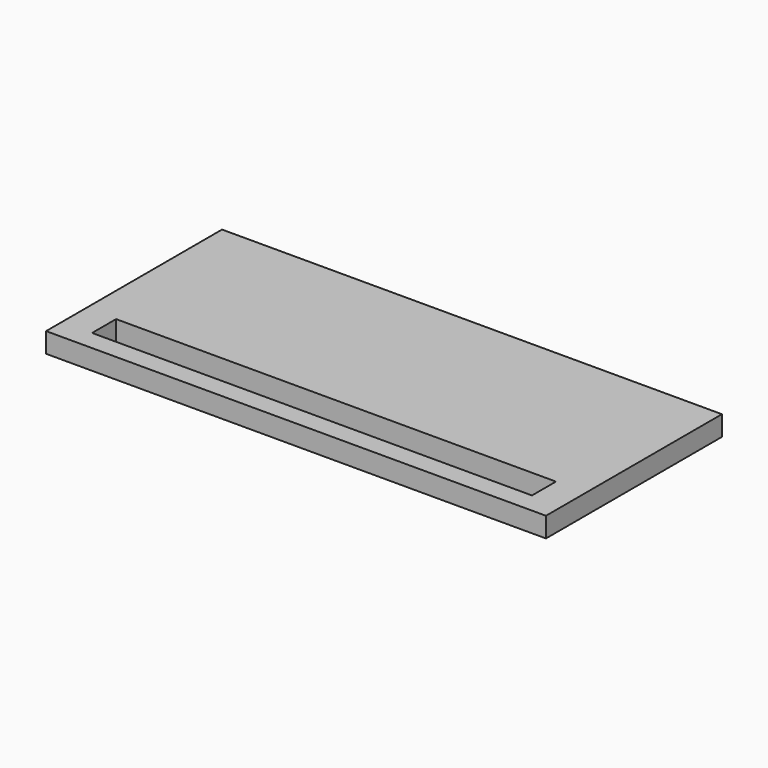
from build123d import *

# Parameters (mm, degrees)
BOX138_W     = 22
BOX138_H     = 1.5
BOX138_DEPTH = 2
BOX137_W     = 25
BOX137_H     = 11
BOX137_DEPTH = 1


with BuildPart() as longledhole007:
    # Box138 → Box138 (new body)
    with BuildSketch(Plane(origin=(1.5, 1, 0), x_dir=(1, 0, 0), z_dir=(0, 0, 1))):
        with Locations((11, 0.75)):
            Rectangle(BOX138_W, BOX138_H)
    extrude(amount=BOX138_DEPTH)


with BuildPart() as cut024:
    # Box137 → Box137 (new body)
    with BuildSketch(Plane.XY):
        with Locations((12.5, 5.5)):
            Rectangle(BOX137_W, BOX137_H)
    extrude(amount=BOX137_DEPTH)

    # Cut024: cut LongLedHole007
    add(longledhole007.part, mode=Mode.SUBTRACT)


solid = cut024.part
